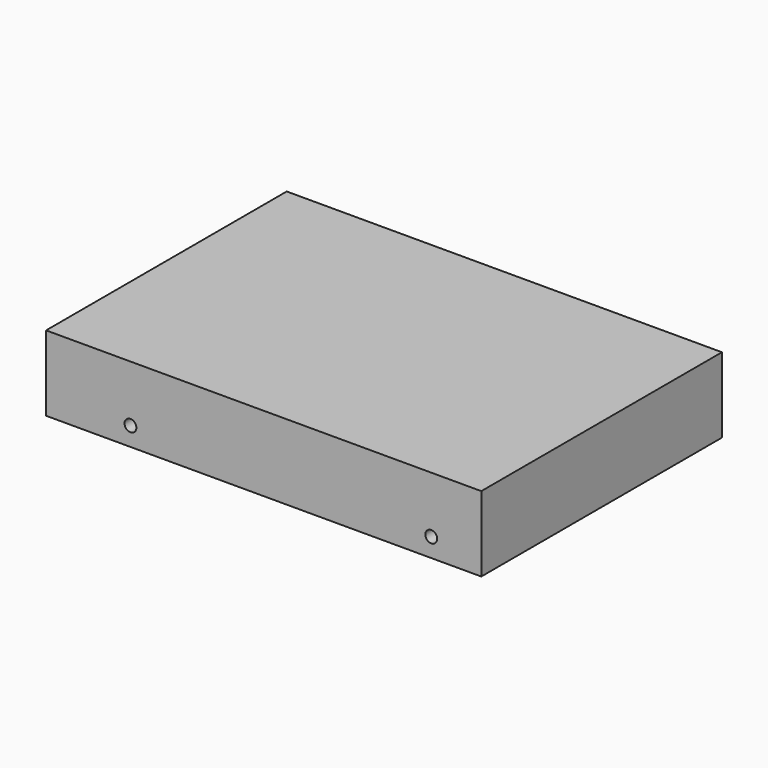
from build123d import *

# Parameters (mm, degrees)
SKETCH075_W             = 101.6
SKETCH075_H             = 147
PAD026_DEPTH            = 25.4
SKETCH076_W             = 45.794352
SKETCH076_H             = 8.488647
POCKET024_DEPTH         = 5
SKETCH077_R             = 2
POCKET025_DEPTH         = 101.601
BODY015_PLACEMENT_ANGLE = 90


with BuildPart() as part:
    # Sketch075 → Pad026 (new body)
    with BuildSketch(Plane.XY):
        Rectangle(SKETCH075_W, SKETCH075_H)
    extrude(amount=PAD026_DEPTH)

    # Sketch076 (on Face3 of Pad026) → Pocket024 (cut)
    with BuildSketch(Plane(origin=(0, 73.5, 0), x_dir=(-1, 0, 0), z_dir=(0, 1, 0))):
        with Locations((-19.708751, 4.2443235)):
            Rectangle(SKETCH076_W, SKETCH076_H)
    extrude(amount=-POCKET024_DEPTH, mode=Mode.SUBTRACT)

    # Sketch077 (on Face2 of Pocket024) → Pocket025 (cut, through all)
    with BuildSketch(Plane(origin=(-50.8, 0, 0), x_dir=(0, -1, 0), z_dir=(-1, 0, 0))):
        with Locations((-45, 6.35)):
            Circle(SKETCH077_R)
        with Locations((56.6, 6.35)):
            Circle(SKETCH077_R)
    extrude(amount=-POCKET025_DEPTH, mode=Mode.SUBTRACT)


with BuildPart() as part_1:
    # Body015 placement: moved
    add(part.part.moved(Location((281.1, 101.86, 14.7))).rotate(Axis((281.1, 101.86, 14.7), (0, 0, 1)), BODY015_PLACEMENT_ANGLE))


solid = part_1.part
